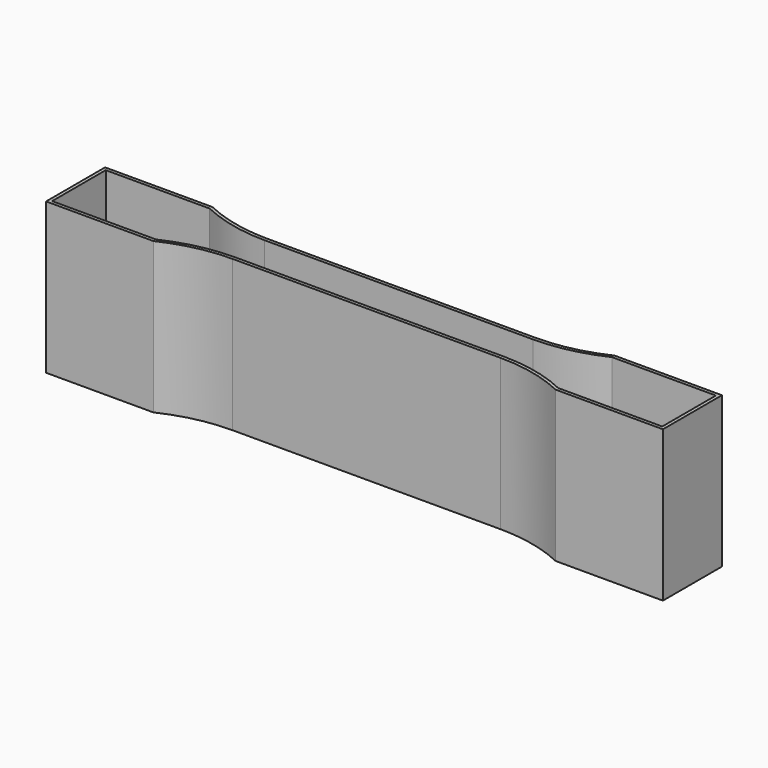
from build123d import *

# Parameters (mm, degrees)
F2_DEPTH = 45
F3_DEPTH = 2


with BuildPart() as f2:
    # F1 (on face) → F2 (new body)
    with BuildSketch(Plane.XY):
        with BuildLine():
            Line((31, 1), (-1, 1))
            Line((-1, 1), (-1, -21))
            Line((-1, -21), (31, -21))
            ThreePointArc((31, -21), (40.75, -17.638889), (51, -16.5))
            Line((51, -16.5), (131, -16.5))
            ThreePointArc((131, -16.5), (141.25, -17.638889), (151, -21))
            Line((151, -21), (183, -21))
            Line((183, -21), (183, 1))
            Line((183, 1), (151, 1))
            ThreePointArc((151, 1), (141.25, -2.361111), (131, -3.5))
            Line((131, -3.5), (51, -3.5))
            ThreePointArc((51, -3.5), (40.75, -2.361111), (31, 1))
        make_face()
        with BuildLine():
            Line((0, 0), (31, 0))
            ThreePointArc((31, 0), (40.75, -3.361111), (51, -4.5))
            Line((51, -4.5), (131, -4.5))
            ThreePointArc((131, -4.5), (141.25, -3.361111), (151, 0))
            Line((151, 0), (182, 0))
            Line((182, 0), (182, -20))
            Line((182, -20), (151, -20))
            ThreePointArc((151, -20), (141.25, -16.638889), (131, -15.5))
            Line((131, -15.5), (51, -15.5))
            ThreePointArc((51, -15.5), (40.75, -16.638889), (31, -20))
            Line((31, -20), (0, -20))
            Line((0, -20), (0, 0))
        make_face(mode=Mode.SUBTRACT)
    extrude(amount=F2_DEPTH)

    # F0 (on Top) → F3 (join)
    with BuildSketch(Plane.XY):
        with BuildLine():
            Line((31, 0), (0, 0))
            Line((0, 0), (0, -20))
            Line((0, -20), (31, -20))
            ThreePointArc((31, -20), (40.75, -16.638889), (51, -15.5))
            Line((51, -15.5), (131, -15.5))
            ThreePointArc((131, -15.5), (141.25, -16.638889), (151, -20))
            Line((151, -20), (182, -20))
            Line((182, -20), (182, 0))
            Line((182, 0), (151, 0))
            ThreePointArc((151, 0), (141.25, -3.361111), (131, -4.5))
            Line((131, -4.5), (51, -4.5))
            ThreePointArc((51, -4.5), (40.75, -3.361111), (31, 0))
        make_face()
    extrude(amount=F3_DEPTH)


solid = f2.part
